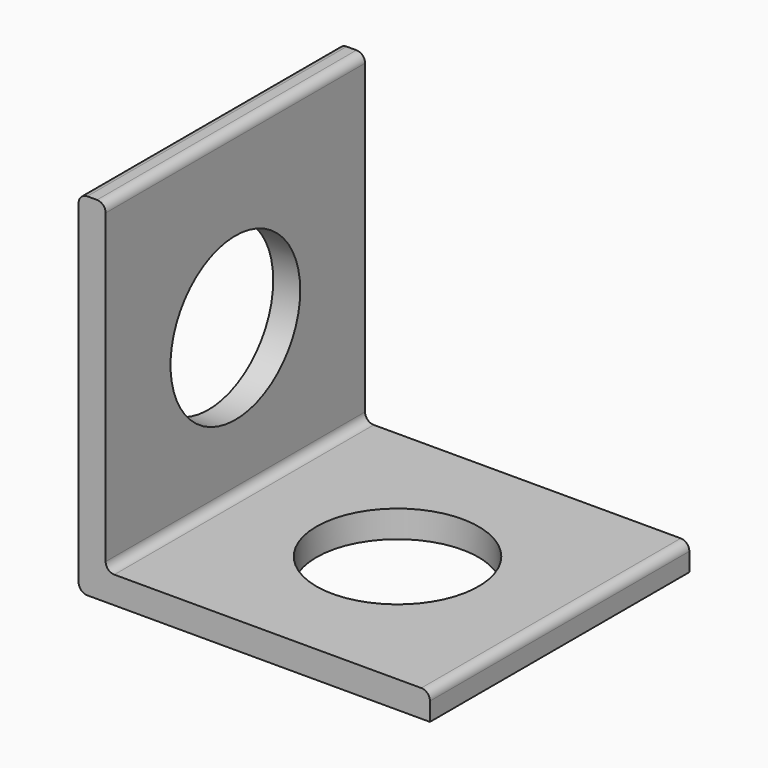
from build123d import *

# Parameters (mm, degrees)
F1_DEPTH = 19.05
F2_R     = 0.508
F4_DEPTH = 25.4
F6_DEPTH = 25.4


with BuildPart() as f1:
    # F0 (on Front) → F1 (new body)
    with BuildSketch(Plane.XZ):
        Polygon((-25.6741352886, 34.6823864549), (-27.2616352886, 34.6823864549), (-27.2616352886, 14.0448864549), (-6.6241352886, 14.0448864549), (-6.6241352886, 15.6323864549), (-25.6741352886, 15.6323864549), align=None)
    extrude(amount=F1_DEPTH)

    # F2
    f2_edges = [f1.edges().sort_by_distance(p)[0] for p in [
        (-27.261635, -9.525, 14.044886),
        (-27.261635, -9.525, 34.682386),
        (-25.674135, -9.525, 34.682386),
        (-6.624135, -9.525, 15.632386),
        (-25.674135, -9.525, 15.632386),
    ]]
    fillet(f2_edges, radius=F2_R)

    # F3 (on face) → F4 (cut)
    with BuildSketch(Plane(origin=(-27.2616352886, 0, 0), x_dir=(0, -1, 0), z_dir=(-1, 0, 0))):
        with BuildLine():
            Line((4.7625, 24.3636364549), (14.2875, 24.3636364549))
            ThreePointArc((14.2875, 24.3636364549), (9.525, 29.1261364549), (4.7625, 24.3636364549))
        make_face()
        with BuildLine():
            ThreePointArc((4.7625, 24.3636364549), (9.525, 19.6011364549), (14.2875, 24.3636364549))
            Line((14.2875, 24.3636364549), (4.7625, 24.3636364549))
        make_face()
    extrude(amount=-F4_DEPTH, mode=Mode.SUBTRACT)

    # F5 (on face) → F6 (cut)
    with BuildSketch(Plane.XY.offset(15.6323864549)):
        with BuildLine():
            Line((-20.9116352886, -9.525), (-11.3866352886, -9.525))
            ThreePointArc((-11.3866352886, -9.525), (-16.1491352886, -4.7625), (-20.9116352886, -9.525))
        make_face()
        with BuildLine():
            ThreePointArc((-20.9116352886, -9.525), (-16.1491352886, -14.2875), (-11.3866352886, -9.525))
            Line((-11.3866352886, -9.525), (-20.9116352886, -9.525))
        make_face()
    extrude(amount=-F6_DEPTH, mode=Mode.SUBTRACT)


solid = f1.part
